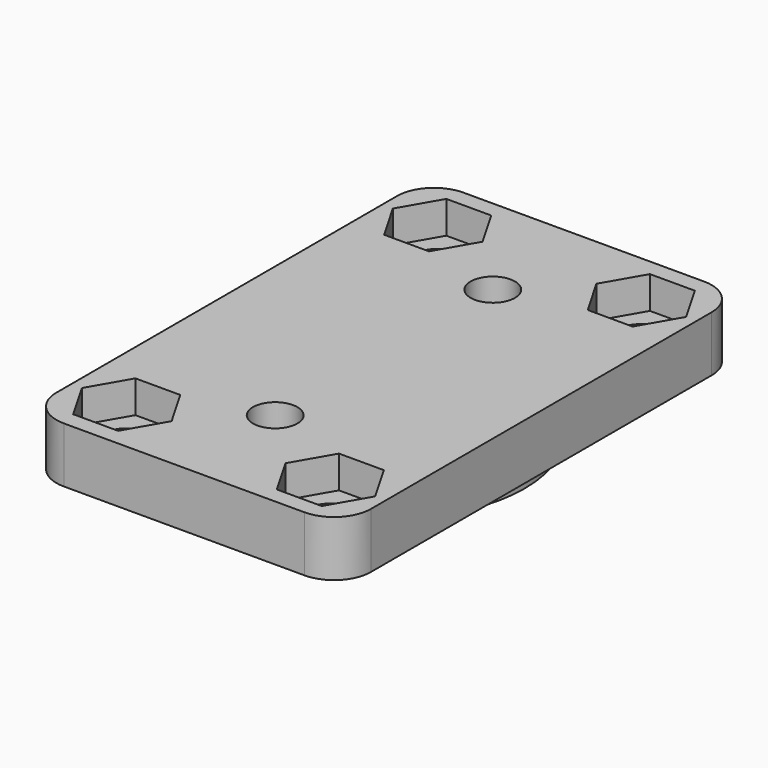
from build123d import *

# Parameters (mm, degrees)
PAD001_DEPTH         = 3
SKETCH024_R          = 1.2
POCKET008_DEPTH      = 3.001
PAD002_DEPTH         = 1
SKETCH023_R          = 1.2
POCKET010_DEPTH      = 4.001
POCKET010_DEPTH_BACK = 0.001
POCKET011_DEPTH      = 1.75


with BuildPart() as part:
    # Sketch022 → Pad001 (new body)
    with BuildSketch(Plane.XY):
        with BuildLine():
            Line((-6.5, 0), (6.5, 0))
            ThreePointArc((6.5, 0), (7.914214, 0.585786), (8.5, 2))
            Line((8.5, 2), (8.5, 25))
            ThreePointArc((8.5, 25), (7.914214, 26.414214), (6.5, 27))
            Line((6.5, 27), (-6.5, 27))
            ThreePointArc((-6.5, 27), (-7.914214, 26.414214), (-8.5, 25))
            Line((-8.5, 25), (-8.5, 2))
            ThreePointArc((-8.5, 2), (-7.914214, 0.585786), (-6.5, 0))
        make_face()
    extrude(amount=-PAD001_DEPTH)

    # Sketch024 → Pocket008 (cut, through all)
    with BuildSketch(Plane.XY):
        with Locations((-5.5, 24)):
            Circle(SKETCH024_R)
        with Locations((5.5, 24)):
            Circle(SKETCH024_R)
        with Locations((5.5, 3)):
            Circle(SKETCH024_R)
        with Locations((-5.5, 3)):
            Circle(SKETCH024_R)
    extrude(amount=-POCKET008_DEPTH, mode=Mode.SUBTRACT)

    # Sketch026 (on DatumPlane) → Pad002 (join)
    with BuildSketch(Plane.XY.offset(-3)):
        with BuildLine():
            ThreePointArc((-3.711996, 20.131824), (-7.6, 13.5), (-3.711996, 6.868176))
            ThreePointArc((-2.735155, 5.550893), (-3.08235, 6.314261), (-3.711996, 6.868176))
            ThreePointArc((-2.735155, 5.550893), (0, 3.35), (2.735155, 5.550893))
            ThreePointArc((3.711996, 6.868176), (3.08235, 6.314261), (2.735155, 5.550893))
            ThreePointArc((3.711996, 6.868176), (7.6, 13.5), (3.711996, 20.131824))
            ThreePointArc((2.735155, 21.449107), (3.08235, 20.685739), (3.711996, 20.131824))
            ThreePointArc((2.735155, 21.449107), (0, 23.65), (-2.735155, 21.449107))
            ThreePointArc((-3.711996, 20.131824), (-3.08235, 20.685739), (-2.735155, 21.449107))
        make_face()
    extrude(amount=-PAD002_DEPTH)

    # Sketch023 → Pocket010 (cut, two sides)
    with BuildSketch(Plane.XY) as pocket010_sk:
        with Locations((0, 6.15)):
            Circle(SKETCH023_R)
        with Locations((0, 20.85)):
            Circle(SKETCH023_R)
    extrude(amount=-POCKET010_DEPTH, mode=Mode.SUBTRACT)
    extrude(pocket010_sk.sketch, amount=POCKET010_DEPTH_BACK, mode=Mode.SUBTRACT)

    # Sketch027 → Pocket011 (cut)
    with BuildSketch(Plane.XY):
        Polygon((4.287564, 0.9), (6.712436, 0.9), (7.924871, 3), (6.712436, 5.1), (4.287564, 5.1), (3.075129, 3), align=None)
        Polygon((6.712436, 26.1), (4.287564, 26.1), (3.075129, 24), (4.287564, 21.9), (6.712436, 21.9), (7.924871, 24), align=None)
        Polygon((-4.287564, 21.9), (-3.075129, 24), (-4.287564, 26.1), (-6.712436, 26.1), (-7.924871, 24), (-6.712436, 21.9), align=None)
        Polygon((-4.287564, 0.9), (-3.075129, 3), (-4.287564, 5.1), (-6.712436, 5.1), (-7.924871, 3), (-6.712436, 0.9), align=None)
    extrude(amount=-POCKET011_DEPTH, mode=Mode.SUBTRACT)


solid = part.part
